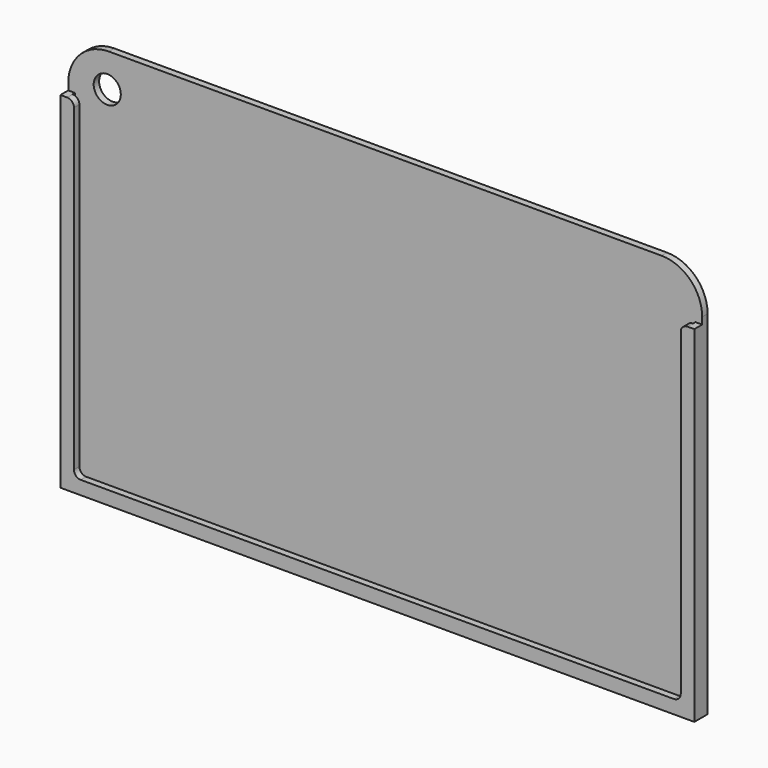
from build123d import *

# Parameters (mm, degrees)
CYLINDER_R     = 2
CYLINDER_DEPTH = 10
BOX001_W       = 93.5
BOX001_H       = 1
BOX001_DEPTH   = 58
FILLET001_R    = 6
BOX003_W       = 1
BOX003_H       = 2.45
BOX003_DEPTH   = 51
BOX004_W       = 1
BOX004_H       = 2.45
BOX004_DEPTH   = 51
BOX006_W       = 93.5
BOX006_H       = 1
BOX006_DEPTH   = 2
BOX005_W       = 2
BOX005_H       = 1
BOX005_DEPTH   = 51
BOX002_W       = 2
BOX002_H       = 1
BOX002_DEPTH   = 51
FILLET_R       = 1
BOX_W          = 93.5
BOX_H          = 2.45
BOX_DEPTH      = 1


with BuildPart() as cylinder:
    # Cylinder → Cylinder (new body)
    with BuildSketch(Plane(origin=(-41, -4, 53), x_dir=(1, 0, 0), z_dir=(0, 1, 0))):
        Circle(CYLINDER_R)
    extrude(amount=CYLINDER_DEPTH)


with BuildPart() as cut:
    # Box001 → Box001 (new body)
    with BuildSketch(Plane(origin=(-46.75, 1.45, 0), x_dir=(1, 0, 0), z_dir=(0, 0, 1))):
        with Locations((46.75, 0.5)):
            Rectangle(BOX001_W, BOX001_H)
    extrude(amount=BOX001_DEPTH)

    # Fillet001
    fillet001_edges = [cut.edges().sort_by_distance(p)[0] for p in [
        (-46.75, 1.95, 58),
        (46.75, 1.95, 58),
    ]]
    fillet(fillet001_edges, radius=FILLET001_R)

    # Cut: cut Cylinder
    add(cylinder.part, mode=Mode.SUBTRACT)


with BuildPart() as cube003:
    # Box003 → Box003 (new body)
    with BuildSketch(Plane(origin=(-46.75, 0, 0), x_dir=(1, 0, 0), z_dir=(0, 0, 1))):
        with Locations((0.5, 1.225)):
            Rectangle(BOX003_W, BOX003_H)
    extrude(amount=BOX003_DEPTH)


with BuildPart() as cube004:
    # Box004 → Box004 (new body)
    with BuildSketch(Plane(origin=(45.75, 0, 0), x_dir=(1, 0, 0), z_dir=(0, 0, 1))):
        with Locations((0.5, 1.225)):
            Rectangle(BOX004_W, BOX004_H)
    extrude(amount=BOX004_DEPTH)


with BuildPart() as cube006:
    # Box006 → Box006 (new body)
    with BuildSketch(Plane(origin=(-46.75, 0, 0), x_dir=(1, 0, 0), z_dir=(0, 0, 1))):
        with Locations((46.75, 0.5)):
            Rectangle(BOX006_W, BOX006_H)
    extrude(amount=BOX006_DEPTH)


with BuildPart() as cube005:
    # Box005 → Box005 (new body)
    with BuildSketch(Plane(origin=(44.75, 0, 0), x_dir=(1, 0, 0), z_dir=(0, 0, 1))):
        with Locations((1, 0.5)):
            Rectangle(BOX005_W, BOX005_H)
    extrude(amount=BOX005_DEPTH)


with BuildPart() as fillet_body:
    # Box002 → Box002 (new body)
    with BuildSketch(Plane(origin=(-46.75, 0, 0), x_dir=(1, 0, 0), z_dir=(0, 0, 1))):
        with Locations((1, 0.5)):
            Rectangle(BOX002_W, BOX002_H)
    extrude(amount=BOX002_DEPTH)

    # Fusion: union Cube006, Cube005
    add(cube006.part)
    add(cube005.part)

    # Fillet
    fillet_edges = [fillet_body.edges().sort_by_distance(p)[0] for p in [
        (-44.75, 0.5, 51),
        (44.75, 0.5, 2),
        (-44.75, 0.5, 2),
        (44.75, 0.5, 51),
    ]]
    fillet(fillet_edges, radius=FILLET_R)


with BuildPart() as fusion001:
    # Box → Box (new body)
    with BuildSketch(Plane(origin=(-46.75, 0, 0), x_dir=(1, 0, 0), z_dir=(0, 0, 1))):
        with Locations((46.75, 1.225)):
            Rectangle(BOX_W, BOX_H)
    extrude(amount=BOX_DEPTH)

    # Fusion001: union Cut, Cube003, Cube004, Fillet body
    add(cut.part)
    add(cube003.part)
    add(cube004.part)
    add(fillet_body.part)


solid = fusion001.part
